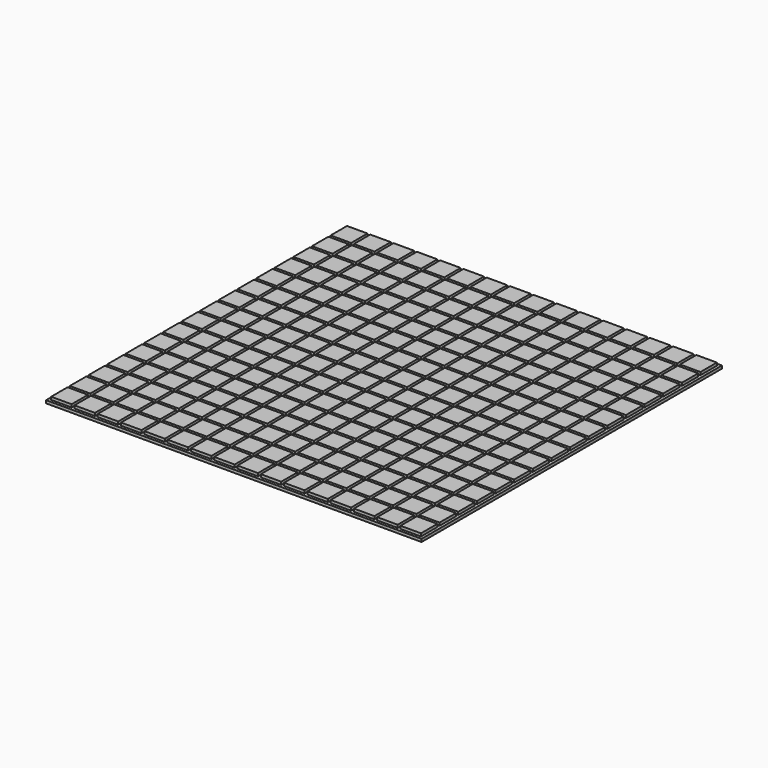
from build123d import *

# Parameters (mm, degrees)
F0_W     = 266
F0_H     = 266
F2_DEPTH = 2
F1_W     = 14.5
F1_H     = 14.5
F3_DEPTH = 2


with BuildPart() as f2:
    # F0 (on Top) → F2 (new body)
    with BuildSketch(Plane.XY):
        Rectangle(F0_W, F0_H)
    extrude(amount=-F2_DEPTH)

    # F1 (on Top) → F3 (join)
    with BuildSketch(Plane.XY):
        with Locations((-123.75, 123.75)):
            Rectangle(F1_W, F1_H)
        with Locations((-123.75, 107.25)):
            Rectangle(F1_W, F1_H)
        with Locations((-123.75, 90.75)):
            Rectangle(F1_W, F1_H)
        with Locations((-123.75, 74.25)):
            Rectangle(F1_W, F1_H)
        with Locations((-123.75, 57.75)):
            Rectangle(F1_W, F1_H)
        with Locations((-123.75, 41.25)):
            Rectangle(F1_W, F1_H)
        with Locations((-123.75, 24.75)):
            Rectangle(F1_W, F1_H)
        with Locations((-123.75, 8.25)):
            Rectangle(F1_W, F1_H)
        with Locations((-123.75, -8.25)):
            Rectangle(F1_W, F1_H)
        with Locations((-123.75, -24.75)):
            Rectangle(F1_W, F1_H)
        with Locations((-123.75, -41.25)):
            Rectangle(F1_W, F1_H)
        with Locations((-123.75, -57.75)):
            Rectangle(F1_W, F1_H)
        with Locations((-123.75, -74.25)):
            Rectangle(F1_W, F1_H)
        with Locations((-123.75, -90.75)):
            Rectangle(F1_W, F1_H)
        with Locations((-123.75, -107.25)):
            Rectangle(F1_W, F1_H)
        with Locations((-123.75, -123.75)):
            Rectangle(F1_W, F1_H)
        with Locations((-107.25, 123.75)):
            Rectangle(F1_W, F1_H)
        with Locations((-107.25, 107.25)):
            Rectangle(F1_W, F1_H)
        with Locations((-107.25, 90.75)):
            Rectangle(F1_W, F1_H)
        with Locations((-107.25, 74.25)):
            Rectangle(F1_W, F1_H)
        with Locations((-107.25, 57.75)):
            Rectangle(F1_W, F1_H)
        with Locations((-107.25, 41.25)):
            Rectangle(F1_W, F1_H)
        with Locations((-107.25, 24.75)):
            Rectangle(F1_W, F1_H)
        with Locations((-107.25, 8.25)):
            Rectangle(F1_W, F1_H)
        with Locations((-107.25, -8.25)):
            Rectangle(F1_W, F1_H)
        with Locations((-107.25, -24.75)):
            Rectangle(F1_W, F1_H)
        with Locations((-107.25, -41.25)):
            Rectangle(F1_W, F1_H)
        with Locations((-107.25, -57.75)):
            Rectangle(F1_W, F1_H)
        with Locations((-107.25, -74.25)):
            Rectangle(F1_W, F1_H)
        with Locations((-107.25, -90.75)):
            Rectangle(F1_W, F1_H)
        with Locations((-107.25, -107.25)):
            Rectangle(F1_W, F1_H)
        with Locations((-107.25, -123.75)):
            Rectangle(F1_W, F1_H)
        with Locations((-90.75, 123.75)):
            Rectangle(F1_W, F1_H)
        with Locations((-90.75, 107.25)):
            Rectangle(F1_W, F1_H)
        with Locations((-90.75, 90.75)):
            Rectangle(F1_W, F1_H)
        with Locations((-90.75, 74.25)):
            Rectangle(F1_W, F1_H)
        with Locations((-90.75, 57.75)):
            Rectangle(F1_W, F1_H)
        with Locations((-90.75, 41.25)):
            Rectangle(F1_W, F1_H)
        with Locations((-90.75, 24.75)):
            Rectangle(F1_W, F1_H)
        with Locations((-90.75, 8.25)):
            Rectangle(F1_W, F1_H)
        with Locations((-90.75, -8.25)):
            Rectangle(F1_W, F1_H)
        with Locations((-90.75, -24.75)):
            Rectangle(F1_W, F1_H)
        with Locations((-90.75, -41.25)):
            Rectangle(F1_W, F1_H)
        with Locations((-90.75, -57.75)):
            Rectangle(F1_W, F1_H)
        with Locations((-90.75, -74.25)):
            Rectangle(F1_W, F1_H)
        with Locations((-90.75, -90.75)):
            Rectangle(F1_W, F1_H)
        with Locations((-90.75, -107.25)):
            Rectangle(F1_W, F1_H)
        with Locations((-90.75, -123.75)):
            Rectangle(F1_W, F1_H)
        with Locations((-74.25, 123.75)):
            Rectangle(F1_W, F1_H)
        with Locations((-74.25, 107.25)):
            Rectangle(F1_W, F1_H)
        with Locations((-74.25, 90.75)):
            Rectangle(F1_W, F1_H)
        with Locations((-74.25, 74.25)):
            Rectangle(F1_W, F1_H)
        with Locations((-74.25, 57.75)):
            Rectangle(F1_W, F1_H)
        with Locations((-74.25, 41.25)):
            Rectangle(F1_W, F1_H)
        with Locations((-74.25, 24.75)):
            Rectangle(F1_W, F1_H)
        with Locations((-74.25, 8.25)):
            Rectangle(F1_W, F1_H)
        with Locations((-74.25, -8.25)):
            Rectangle(F1_W, F1_H)
        with Locations((-74.25, -24.75)):
            Rectangle(F1_W, F1_H)
        with Locations((-74.25, -41.25)):
            Rectangle(F1_W, F1_H)
        with Locations((-74.25, -57.75)):
            Rectangle(F1_W, F1_H)
        with Locations((-74.25, -74.25)):
            Rectangle(F1_W, F1_H)
        with Locations((-74.25, -90.75)):
            Rectangle(F1_W, F1_H)
        with Locations((-74.25, -107.25)):
            Rectangle(F1_W, F1_H)
        with Locations((-74.25, -123.75)):
            Rectangle(F1_W, F1_H)
        with Locations((-57.75, 123.75)):
            Rectangle(F1_W, F1_H)
        with Locations((-57.75, 107.25)):
            Rectangle(F1_W, F1_H)
        with Locations((-57.75, 90.75)):
            Rectangle(F1_W, F1_H)
        with Locations((-57.75, 74.25)):
            Rectangle(F1_W, F1_H)
        with Locations((-57.75, 57.75)):
            Rectangle(F1_W, F1_H)
        with Locations((-57.75, 41.25)):
            Rectangle(F1_W, F1_H)
        with Locations((-57.75, 24.75)):
            Rectangle(F1_W, F1_H)
        with Locations((-57.75, 8.25)):
            Rectangle(F1_W, F1_H)
        with Locations((-57.75, -8.25)):
            Rectangle(F1_W, F1_H)
        with Locations((-57.75, -24.75)):
            Rectangle(F1_W, F1_H)
        with Locations((-57.75, -41.25)):
            Rectangle(F1_W, F1_H)
        with Locations((-57.75, -57.75)):
            Rectangle(F1_W, F1_H)
        with Locations((-57.75, -74.25)):
            Rectangle(F1_W, F1_H)
        with Locations((-57.75, -90.75)):
            Rectangle(F1_W, F1_H)
        with Locations((-57.75, -107.25)):
            Rectangle(F1_W, F1_H)
        with Locations((-57.75, -123.75)):
            Rectangle(F1_W, F1_H)
        with Locations((-41.25, 123.75)):
            Rectangle(F1_W, F1_H)
        with Locations((-41.25, 107.25)):
            Rectangle(F1_W, F1_H)
        with Locations((-41.25, 90.75)):
            Rectangle(F1_W, F1_H)
        with Locations((-41.25, 74.25)):
            Rectangle(F1_W, F1_H)
        with Locations((-41.25, 57.75)):
            Rectangle(F1_W, F1_H)
        with Locations((-41.25, 41.25)):
            Rectangle(F1_W, F1_H)
        with Locations((-41.25, 24.75)):
            Rectangle(F1_W, F1_H)
        with Locations((-41.25, 8.25)):
            Rectangle(F1_W, F1_H)
        with Locations((-41.25, -8.25)):
            Rectangle(F1_W, F1_H)
        with Locations((-41.25, -24.75)):
            Rectangle(F1_W, F1_H)
        with Locations((-41.25, -41.25)):
            Rectangle(F1_W, F1_H)
        with Locations((-41.25, -57.75)):
            Rectangle(F1_W, F1_H)
        with Locations((-41.25, -74.25)):
            Rectangle(F1_W, F1_H)
        with Locations((-41.25, -90.75)):
            Rectangle(F1_W, F1_H)
        with Locations((-41.25, -107.25)):
            Rectangle(F1_W, F1_H)
        with Locations((-41.25, -123.75)):
            Rectangle(F1_W, F1_H)
        with Locations((-24.75, 123.75)):
            Rectangle(F1_W, F1_H)
        with Locations((-24.75, 107.25)):
            Rectangle(F1_W, F1_H)
        with Locations((-24.75, 90.75)):
            Rectangle(F1_W, F1_H)
        with Locations((-24.75, 74.25)):
            Rectangle(F1_W, F1_H)
        with Locations((-24.75, 57.75)):
            Rectangle(F1_W, F1_H)
        with Locations((-24.75, 41.25)):
            Rectangle(F1_W, F1_H)
        with Locations((-24.75, 24.75)):
            Rectangle(F1_W, F1_H)
        with Locations((-24.75, 8.25)):
            Rectangle(F1_W, F1_H)
        with Locations((-24.75, -8.25)):
            Rectangle(F1_W, F1_H)
        with Locations((-24.75, -24.75)):
            Rectangle(F1_W, F1_H)
        with Locations((-24.75, -41.25)):
            Rectangle(F1_W, F1_H)
        with Locations((-24.75, -57.75)):
            Rectangle(F1_W, F1_H)
        with Locations((-24.75, -74.25)):
            Rectangle(F1_W, F1_H)
        with Locations((-24.75, -90.75)):
            Rectangle(F1_W, F1_H)
        with Locations((-24.75, -107.25)):
            Rectangle(F1_W, F1_H)
        with Locations((-24.75, -123.75)):
            Rectangle(F1_W, F1_H)
        with Locations((-8.25, 123.75)):
            Rectangle(F1_W, F1_H)
        with Locations((-8.25, 107.25)):
            Rectangle(F1_W, F1_H)
        with Locations((-8.25, 90.75)):
            Rectangle(F1_W, F1_H)
        with Locations((-8.25, 74.25)):
            Rectangle(F1_W, F1_H)
        with Locations((-8.25, 57.75)):
            Rectangle(F1_W, F1_H)
        with Locations((-8.25, 41.25)):
            Rectangle(F1_W, F1_H)
        with Locations((-8.25, 24.75)):
            Rectangle(F1_W, F1_H)
        with Locations((-8.25, 8.25)):
            Rectangle(F1_W, F1_H)
        with Locations((-8.25, -8.25)):
            Rectangle(F1_W, F1_H)
        with Locations((-8.25, -24.75)):
            Rectangle(F1_W, F1_H)
        with Locations((-8.25, -41.25)):
            Rectangle(F1_W, F1_H)
        with Locations((-8.25, -57.75)):
            Rectangle(F1_W, F1_H)
        with Locations((-8.25, -74.25)):
            Rectangle(F1_W, F1_H)
        with Locations((-8.25, -90.75)):
            Rectangle(F1_W, F1_H)
        with Locations((-8.25, -107.25)):
            Rectangle(F1_W, F1_H)
        with Locations((-8.25, -123.75)):
            Rectangle(F1_W, F1_H)
        with Locations((8.25, 123.75)):
            Rectangle(F1_W, F1_H)
        with Locations((8.25, 107.25)):
            Rectangle(F1_W, F1_H)
        with Locations((8.25, 90.75)):
            Rectangle(F1_W, F1_H)
        with Locations((8.25, 74.25)):
            Rectangle(F1_W, F1_H)
        with Locations((8.25, 57.75)):
            Rectangle(F1_W, F1_H)
        with Locations((8.25, 41.25)):
            Rectangle(F1_W, F1_H)
        with Locations((8.25, 24.75)):
            Rectangle(F1_W, F1_H)
        with Locations((8.25, 8.25)):
            Rectangle(F1_W, F1_H)
        with Locations((8.25, -8.25)):
            Rectangle(F1_W, F1_H)
        with Locations((8.25, -24.75)):
            Rectangle(F1_W, F1_H)
        with Locations((8.25, -41.25)):
            Rectangle(F1_W, F1_H)
        with Locations((8.25, -57.75)):
            Rectangle(F1_W, F1_H)
        with Locations((8.25, -74.25)):
            Rectangle(F1_W, F1_H)
        with Locations((8.25, -90.75)):
            Rectangle(F1_W, F1_H)
        with Locations((8.25, -107.25)):
            Rectangle(F1_W, F1_H)
        with Locations((8.25, -123.75)):
            Rectangle(F1_W, F1_H)
        with Locations((24.75, 123.75)):
            Rectangle(F1_W, F1_H)
        with Locations((24.75, 107.25)):
            Rectangle(F1_W, F1_H)
        with Locations((24.75, 90.75)):
            Rectangle(F1_W, F1_H)
        with Locations((24.75, 74.25)):
            Rectangle(F1_W, F1_H)
        with Locations((24.75, 57.75)):
            Rectangle(F1_W, F1_H)
        with Locations((24.75, 41.25)):
            Rectangle(F1_W, F1_H)
        with Locations((24.75, 24.75)):
            Rectangle(F1_W, F1_H)
        with Locations((24.75, 8.25)):
            Rectangle(F1_W, F1_H)
        with Locations((24.75, -8.25)):
            Rectangle(F1_W, F1_H)
        with Locations((24.75, -24.75)):
            Rectangle(F1_W, F1_H)
        with Locations((24.75, -41.25)):
            Rectangle(F1_W, F1_H)
        with Locations((24.75, -57.75)):
            Rectangle(F1_W, F1_H)
        with Locations((24.75, -74.25)):
            Rectangle(F1_W, F1_H)
        with Locations((24.75, -90.75)):
            Rectangle(F1_W, F1_H)
        with Locations((24.75, -107.25)):
            Rectangle(F1_W, F1_H)
        with Locations((24.75, -123.75)):
            Rectangle(F1_W, F1_H)
        with Locations((41.25, 123.75)):
            Rectangle(F1_W, F1_H)
        with Locations((41.25, 107.25)):
            Rectangle(F1_W, F1_H)
        with Locations((41.25, 90.75)):
            Rectangle(F1_W, F1_H)
        with Locations((41.25, 74.25)):
            Rectangle(F1_W, F1_H)
        with Locations((41.25, 57.75)):
            Rectangle(F1_W, F1_H)
        with Locations((41.25, 41.25)):
            Rectangle(F1_W, F1_H)
        with Locations((41.25, 24.75)):
            Rectangle(F1_W, F1_H)
        with Locations((41.25, 8.25)):
            Rectangle(F1_W, F1_H)
        with Locations((41.25, -8.25)):
            Rectangle(F1_W, F1_H)
        with Locations((41.25, -24.75)):
            Rectangle(F1_W, F1_H)
        with Locations((41.25, -41.25)):
            Rectangle(F1_W, F1_H)
        with Locations((41.25, -57.75)):
            Rectangle(F1_W, F1_H)
        with Locations((41.25, -74.25)):
            Rectangle(F1_W, F1_H)
        with Locations((41.25, -90.75)):
            Rectangle(F1_W, F1_H)
        with Locations((41.25, -107.25)):
            Rectangle(F1_W, F1_H)
        with Locations((41.25, -123.75)):
            Rectangle(F1_W, F1_H)
        with Locations((57.75, 123.75)):
            Rectangle(F1_W, F1_H)
        with Locations((57.75, 107.25)):
            Rectangle(F1_W, F1_H)
        with Locations((57.75, 90.75)):
            Rectangle(F1_W, F1_H)
        with Locations((57.75, 74.25)):
            Rectangle(F1_W, F1_H)
        with Locations((57.75, 57.75)):
            Rectangle(F1_W, F1_H)
        with Locations((57.75, 41.25)):
            Rectangle(F1_W, F1_H)
        with Locations((57.75, 24.75)):
            Rectangle(F1_W, F1_H)
        with Locations((57.75, 8.25)):
            Rectangle(F1_W, F1_H)
        with Locations((57.75, -8.25)):
            Rectangle(F1_W, F1_H)
        with Locations((57.75, -24.75)):
            Rectangle(F1_W, F1_H)
        with Locations((57.75, -41.25)):
            Rectangle(F1_W, F1_H)
        with Locations((57.75, -57.75)):
            Rectangle(F1_W, F1_H)
        with Locations((57.75, -74.25)):
            Rectangle(F1_W, F1_H)
        with Locations((57.75, -90.75)):
            Rectangle(F1_W, F1_H)
        with Locations((57.75, -107.25)):
            Rectangle(F1_W, F1_H)
        with Locations((57.75, -123.75)):
            Rectangle(F1_W, F1_H)
        with Locations((74.25, 123.75)):
            Rectangle(F1_W, F1_H)
        with Locations((74.25, 107.25)):
            Rectangle(F1_W, F1_H)
        with Locations((74.25, 90.75)):
            Rectangle(F1_W, F1_H)
        with Locations((74.25, 74.25)):
            Rectangle(F1_W, F1_H)
        with Locations((74.25, 57.75)):
            Rectangle(F1_W, F1_H)
        with Locations((74.25, 41.25)):
            Rectangle(F1_W, F1_H)
        with Locations((74.25, 24.75)):
            Rectangle(F1_W, F1_H)
        with Locations((74.25, 8.25)):
            Rectangle(F1_W, F1_H)
        with Locations((74.25, -8.25)):
            Rectangle(F1_W, F1_H)
        with Locations((74.25, -24.75)):
            Rectangle(F1_W, F1_H)
        with Locations((74.25, -41.25)):
            Rectangle(F1_W, F1_H)
        with Locations((74.25, -57.75)):
            Rectangle(F1_W, F1_H)
        with Locations((74.25, -74.25)):
            Rectangle(F1_W, F1_H)
        with Locations((74.25, -90.75)):
            Rectangle(F1_W, F1_H)
        with Locations((74.25, -107.25)):
            Rectangle(F1_W, F1_H)
        with Locations((74.25, -123.75)):
            Rectangle(F1_W, F1_H)
        with Locations((90.75, 123.75)):
            Rectangle(F1_W, F1_H)
        with Locations((90.75, 107.25)):
            Rectangle(F1_W, F1_H)
        with Locations((90.75, 90.75)):
            Rectangle(F1_W, F1_H)
        with Locations((90.75, 74.25)):
            Rectangle(F1_W, F1_H)
        with Locations((90.75, 57.75)):
            Rectangle(F1_W, F1_H)
        with Locations((90.75, 41.25)):
            Rectangle(F1_W, F1_H)
        with Locations((90.75, 24.75)):
            Rectangle(F1_W, F1_H)
        with Locations((90.75, 8.25)):
            Rectangle(F1_W, F1_H)
        with Locations((90.75, -8.25)):
            Rectangle(F1_W, F1_H)
        with Locations((90.75, -24.75)):
            Rectangle(F1_W, F1_H)
        with Locations((90.75, -41.25)):
            Rectangle(F1_W, F1_H)
        with Locations((90.75, -57.75)):
            Rectangle(F1_W, F1_H)
        with Locations((90.75, -74.25)):
            Rectangle(F1_W, F1_H)
        with Locations((90.75, -90.75)):
            Rectangle(F1_W, F1_H)
        with Locations((90.75, -107.25)):
            Rectangle(F1_W, F1_H)
        with Locations((90.75, -123.75)):
            Rectangle(F1_W, F1_H)
        with Locations((107.25, 123.75)):
            Rectangle(F1_W, F1_H)
        with Locations((107.25, 107.25)):
            Rectangle(F1_W, F1_H)
        with Locations((107.25, 90.75)):
            Rectangle(F1_W, F1_H)
        with Locations((107.25, 74.25)):
            Rectangle(F1_W, F1_H)
        with Locations((107.25, 57.75)):
            Rectangle(F1_W, F1_H)
        with Locations((107.25, 41.25)):
            Rectangle(F1_W, F1_H)
        with Locations((107.25, 24.75)):
            Rectangle(F1_W, F1_H)
        with Locations((107.25, 8.25)):
            Rectangle(F1_W, F1_H)
        with Locations((107.25, -8.25)):
            Rectangle(F1_W, F1_H)
        with Locations((107.25, -24.75)):
            Rectangle(F1_W, F1_H)
        with Locations((107.25, -41.25)):
            Rectangle(F1_W, F1_H)
        with Locations((107.25, -57.75)):
            Rectangle(F1_W, F1_H)
        with Locations((107.25, -74.25)):
            Rectangle(F1_W, F1_H)
        with Locations((107.25, -90.75)):
            Rectangle(F1_W, F1_H)
        with Locations((107.25, -107.25)):
            Rectangle(F1_W, F1_H)
        with Locations((107.25, -123.75)):
            Rectangle(F1_W, F1_H)
        with Locations((123.75, 123.75)):
            Rectangle(F1_W, F1_H)
        with Locations((123.75, 107.25)):
            Rectangle(F1_W, F1_H)
        with Locations((123.75, 90.75)):
            Rectangle(F1_W, F1_H)
        with Locations((123.75, 74.25)):
            Rectangle(F1_W, F1_H)
        with Locations((123.75, 57.75)):
            Rectangle(F1_W, F1_H)
        with Locations((123.75, 41.25)):
            Rectangle(F1_W, F1_H)
        with Locations((123.75, 24.75)):
            Rectangle(F1_W, F1_H)
        with Locations((123.75, 8.25)):
            Rectangle(F1_W, F1_H)
        with Locations((123.75, -8.25)):
            Rectangle(F1_W, F1_H)
        with Locations((123.75, -24.75)):
            Rectangle(F1_W, F1_H)
        with Locations((123.75, -41.25)):
            Rectangle(F1_W, F1_H)
        with Locations((123.75, -57.75)):
            Rectangle(F1_W, F1_H)
        with Locations((123.75, -74.25)):
            Rectangle(F1_W, F1_H)
        with Locations((123.75, -90.75)):
            Rectangle(F1_W, F1_H)
        with Locations((123.75, -107.25)):
            Rectangle(F1_W, F1_H)
        with Locations((123.75, -123.75)):
            Rectangle(F1_W, F1_H)
    extrude(amount=F3_DEPTH)


solid = f2.part
